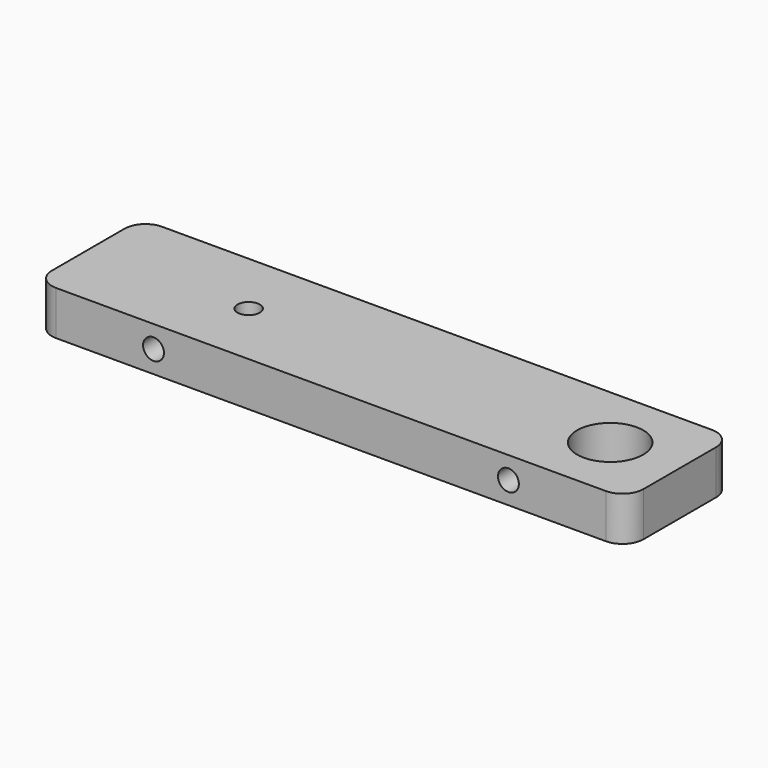
from build123d import *

# Parameters (mm, degrees)
F0_W     = 85
F0_H     = 19.05
F0_R     = 1.6
F0_R_2   = 4.75
F1_DEPTH = 6.35
F2_R     = 1.5
F3_DEPTH = 5
F4_R     = 3


with BuildPart() as f1:
    # F0 (on Top) → F1 (new body)
    with BuildSketch(Plane.XY):
        with Locations((-42.5, 9.525)):
            Rectangle(F0_W, F0_H)
        with Locations((-62, 9.588187)):
            Circle(F0_R, mode=Mode.SUBTRACT)
        with Locations((-10, 9.525)):
            Circle(F0_R_2, mode=Mode.SUBTRACT)
    extrude(amount=F1_DEPTH)

    # F2 (on face) → F3 (cut)
    with BuildSketch(Plane.XZ):
        with Locations((-68, 3.175)):
            Circle(F2_R)
        with Locations((-17, 3.175)):
            Circle(F2_R)
    extrude(amount=-F3_DEPTH, mode=Mode.SUBTRACT)

    # F4
    f4_edges = [f1.edges().sort_by_distance(p)[0] for p in [
        (0, 19.05, 3.175),
        (-85, 19.05, 3.175),
        (-85, 0, 3.175),
        (0, 0, 3.175),
    ]]
    fillet(f4_edges, radius=F4_R)


solid = f1.part
